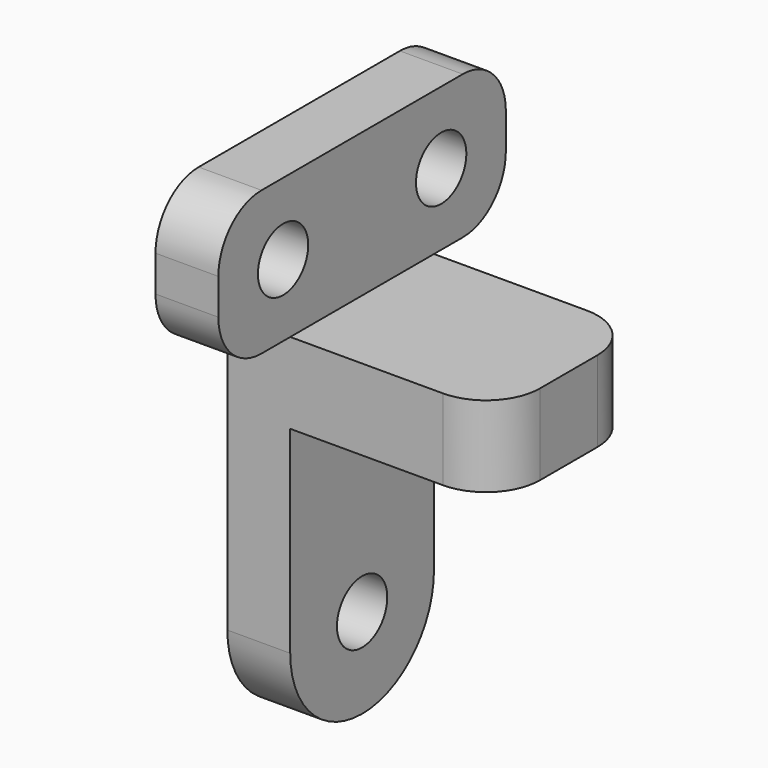
from build123d import *

# Parameters (mm, degrees)
SKETCH023_R  = 1.75
PAD024_DEPTH = 40
PAD025_DEPTH = 70
FILLET011_R  = 3


with BuildPart() as pad024:
    # Sketch023 → Pad024 (new body)
    with BuildSketch(Plane(origin=(-50, 0, 0), x_dir=(0, -1, 0), z_dir=(-1, 0, 0))):
        with BuildLine():
            ThreePointArc((-5, 18), (1e-05, 13), (5, 18.000021))
            Line((5, 33.500021), (5, 18.000021))
            Line((10, 33.500021), (5, 33.500021))
            Line((10, 41.5), (10, 33.500021))
            Line((-10, 41.5), (10, 41.5))
            Line((-10, 33.5), (-10, 41.5))
            Line((-5, 33.5), (-10, 33.5))
            Line((-5, 18), (-5, 33.5))
        make_face()
        with Locations((-5.5, 37.5)):
            Circle(SKETCH023_R, mode=Mode.SUBTRACT)
        with Locations((5.5, 37.5)):
            Circle(SKETCH023_R, mode=Mode.SUBTRACT)
        with Locations((0, 18)):
            Circle(SKETCH023_R, mode=Mode.SUBTRACT)
    extrude(amount=-PAD024_DEPTH)


with BuildPart() as clone_of_support:
    # Sketch022 → Pad025 (new body)
    with BuildSketch(Plane.XZ.offset(40)):
        Polygon((-31.5, 12), (-35, 12), (-35, 53.5), (-31.5, 53.5), (-31.5, 33.5), (-20, 33.5), (-20, 29), (-31.5, 29), align=None)
    extrude(amount=-PAD025_DEPTH)

    # Common001: intersect Pad024
    add(pad024.part, mode=Mode.INTERSECT)

    # Fillet011
    fillet011_edges = [clone_of_support.edges().sort_by_distance(p)[0] for p in [
        (-20, -5, 31.25),
        (-20, 5, 31.25),
        (-33.25, -10, 33.500021),
        (-33.25, 10, 33.5),
        (-33.25, -10, 41.5),
        (-33.25, 10, 41.5),
    ]]
    fillet(fillet011_edges, radius=FILLET011_R)


solid = clone_of_support.part
